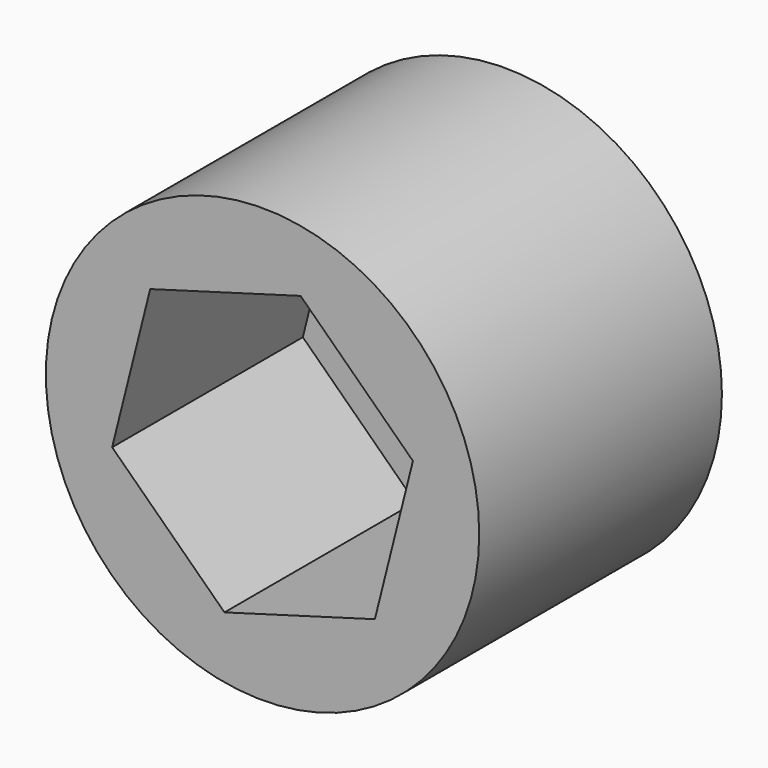
from build123d import *

# Parameters (mm, degrees)
F0_R     = 10
F1_DEPTH = 14
F0_R_2   = 3.5
F2_DEPTH = 3


with BuildPart() as f1:
    # F0 (on Front) → F1 (new body)
    with BuildSketch(Plane.XZ):
        Circle(F0_R)
        Polygon((-5.184207, 5.020691), (1.755942, 7), (6.940149, 1.979309), (5.184207, -5.020691), (-1.755942, -7), (-6.940149, -1.979309), align=None, mode=Mode.SUBTRACT)
    extrude(amount=F1_DEPTH)

    # F0 (on Front) → F2 (join)
    with BuildSketch(Plane.XZ):
        Polygon((6.940149, 1.979309), (1.755942, 7), (-5.184207, 5.020691), (-6.940149, -1.979309), (-1.755942, -7), (5.184207, -5.020691), align=None)
        Circle(F0_R_2, mode=Mode.SUBTRACT)
    extrude(amount=F2_DEPTH)


solid = f1.part
